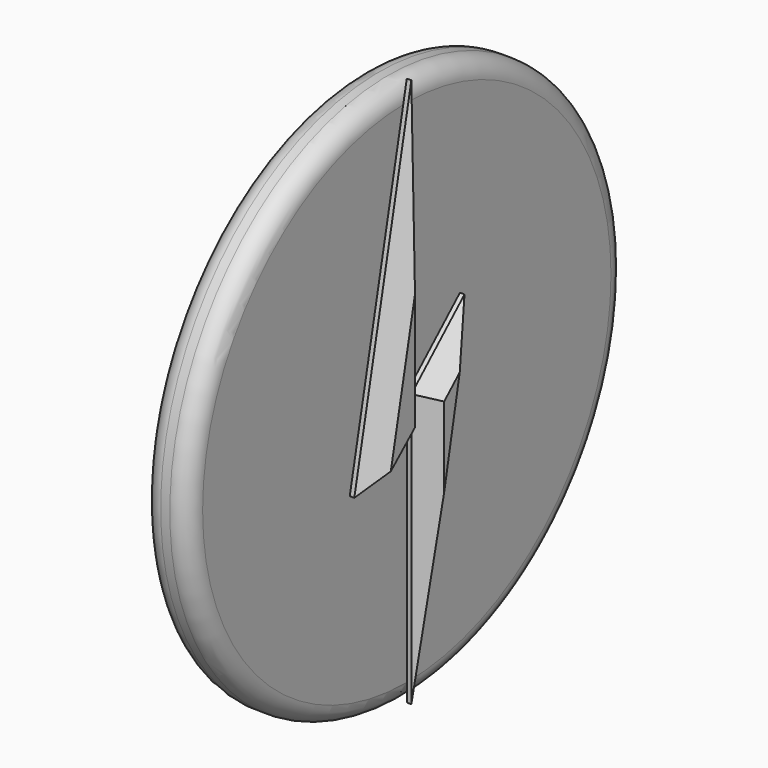
from build123d import *

# Parameters (mm, degrees)
F1_DEPTH  = 6.35
F2_R      = 76.2
F3_DEPTH  = 12.7
F4_R      = 5.08
F5_SIZE   = 5.08
F5_2_SIZE = 5.08


with BuildPart() as f1:
    # F0 (on Right) → F1 (new body)
    with BuildSketch(Plane.YZ):
        Polygon((18.5117721558, 16.9315002859), (0, 0), (0, -76.0788396001), align=None)
    extrude(amount=F1_DEPTH)

    # F5#2
    f5_2_edges = [f1.edges().sort_by_distance(p)[0] for p in [
        (6.35, 0, -38.03942),
        (6.35, 9.255886, -29.57367),
        (6.35, 9.255886, 8.46575),
    ]]
    chamfer(f5_2_edges, length=F5_2_SIZE)


with BuildPart() as f1b:
    # F0 (on Right) → F1, piece 2 (new body)
    with BuildSketch(Plane.YZ):
        Polygon((0, 0), (0, 76.9818648696), (-19.8662821203, -17.3829961568), align=None)
    extrude(amount=F1_DEPTH)

    # F5
    f5_edges = [f1b.edges().sort_by_distance(p)[0] for p in [
        (6.35, -9.933141, 29.799434),
        (6.35, 0, 38.490932),
    ]]
    chamfer(f5_edges, length=F5_SIZE)


with BuildPart() as f3:
    # F2 (on Right) → F3 (new body)
    with BuildSketch(Plane.YZ):
        Circle(F2_R)
    extrude(amount=-F3_DEPTH)

    # F4
    f4_edges = [f3.edges().sort_by_distance(p)[0] for p in [
        (0, -76.2, 0),
        (-12.7, -76.2, 0),
    ]]
    fillet(f4_edges, radius=F4_R)


solid = Compound([f1.part, f1b.part, f3.part])
